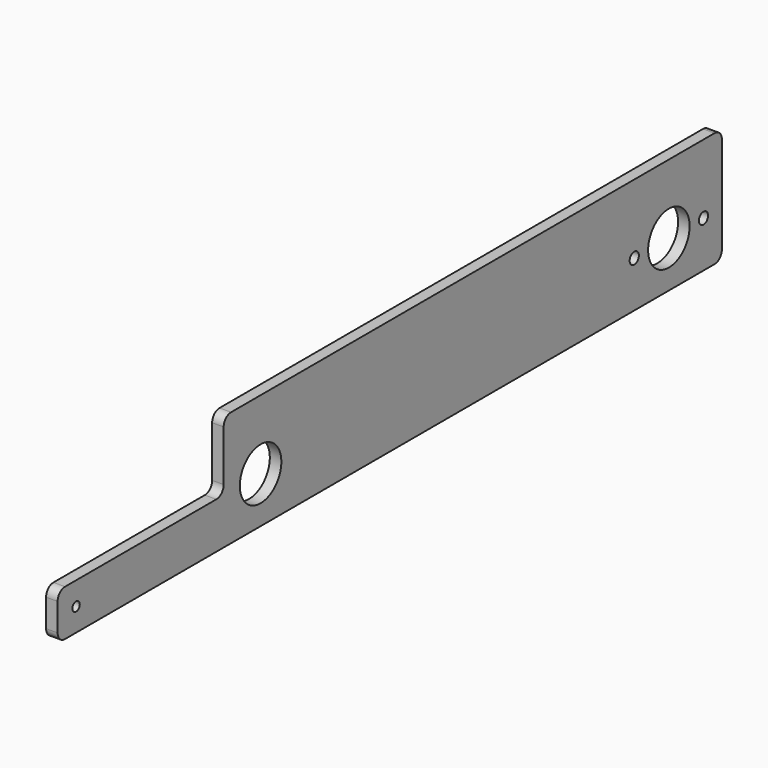
from build123d import *

# Parameters (mm, degrees)
F0_W     = 114.3
F0_H     = 25.4
F0_R     = 2.54
F0_R_2   = 14.2875
F1_DEPTH = 6.35
F2_R     = 5.08


with BuildPart() as f1:
    # F0 (on Right) → F1 (new body)
    with BuildSketch(Plane.YZ):
        with Locations((-171.45, -12.7)):
            Rectangle(F0_W, F0_H)
        with Locations((-215.9, -12.7)):
            Circle(F0_R, mode=Mode.SUBTRACT)
        Polygon((228.6, 38.1), (-114.3, 38.1), (-114.3, 0), (-114.3, -25.4), (228.6, -25.4), (228.6, 0), align=None)
        with Locations((-88.9, 0)):
            Circle(F0_R_2, mode=Mode.SUBTRACT)
        with BuildLine():
            ThreePointArc((165.1, 0), (168.275, 3.175), (171.45, 0))
            ThreePointArc((171.45, 0), (168.275, -3.175), (165.1, 0))
        make_face(mode=Mode.SUBTRACT)
        with BuildLine():
            ThreePointArc((177.8, 0), (192.0875, 14.2875), (206.375, 0))
            ThreePointArc((206.375, 0), (192.0875, -14.2875), (177.8, 0))
        make_face(mode=Mode.SUBTRACT)
        with BuildLine():
            ThreePointArc((212.725, 0), (215.9, 3.175), (219.075, 0))
            ThreePointArc((219.075, 0), (215.9, -3.175), (212.725, 0))
        make_face(mode=Mode.SUBTRACT)
    extrude(amount=F1_DEPTH)

    # F2
    f2_edges = [f1.edges().sort_by_distance(p)[0] for p in [
        (3.175, -114.3, 0),
        (3.175, -114.3, 38.1),
        (3.175, -228.6, 0),
        (3.175, -228.6, -25.4),
        (3.175, 228.6, 38.1),
        (3.175, 228.6, -25.4),
    ]]
    fillet(f2_edges, radius=F2_R)


solid = f1.part
